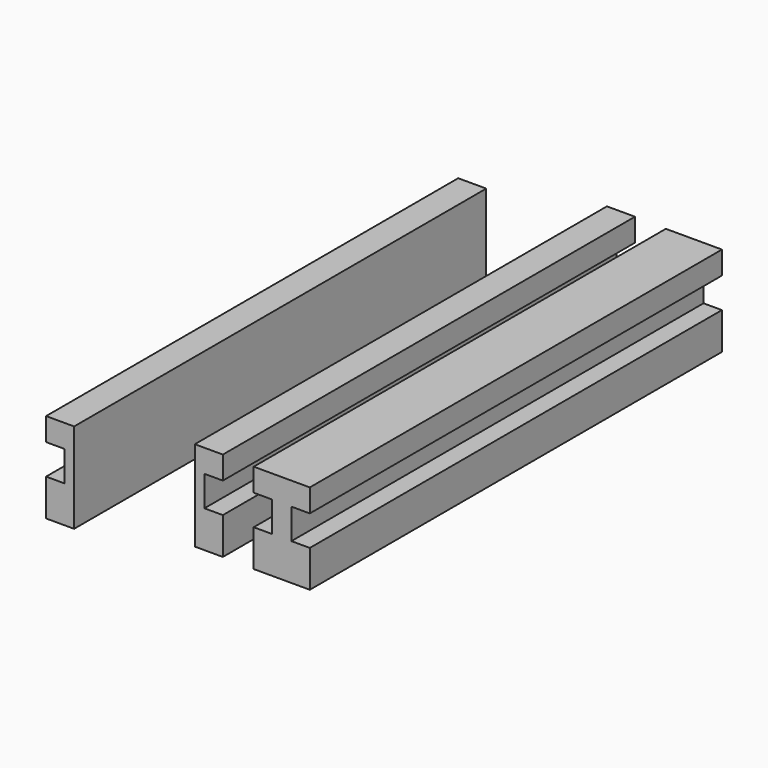
from build123d import *

# Parameters (mm, degrees)
F0_W     = 26.1
F0_H     = 122.3
F1_DEPTH = 698.9
F2_W     = 25
F2_H     = 31.1
F3_DEPTH = 698.9
F5_DEPTH = 698.9
F7_DEPTH = 698.9


with BuildPart() as f1:
    # F0 (on Front) → F1 (new body)
    with BuildSketch(Plane.XZ):
        Rectangle(F0_W, F0_H)
    extrude(amount=F1_DEPTH)

    # F2 (on face) → F3 (join)
    with BuildSketch(Plane.XZ.offset(698.9)):
        with Locations((-25.55, 45.6)):
            Rectangle(F2_W, F2_H)
        Polygon((-38.05, -61.15), (-13.05, -61.15), (-13.05, -11.15), (-38.05, -11.142086), align=None)
        with Locations((25.55, 45.6)):
            Rectangle(F2_W, F2_H)
        Polygon((38.05, -61.15), (38.05, -11.142086), (13.05, -11.15), (13.05, -61.15), align=None)
    extrude(amount=-F3_DEPTH)


with BuildPart() as f5:
    # F4 (on Front) → F5 (new body)
    with BuildSketch(Plane.XZ):
        Polygon((-104.935138, 30.892459), (-79.935138, 30.892459), (-79.935138, 61.992459), (-117.985138, 61.992459), (-117.985138, -60.307541), (-79.935138, -60.307541), (-79.935138, -10.299627), (-104.935138, -10.307541), align=None)
    extrude(amount=F5_DEPTH)


with BuildPart() as f7:
    # F6 (on Front) → F7 (new body)
    with BuildSketch(Plane.XZ):
        Polygon((-281.716662, -92.315719), (-281.716662, 29.984281), (-319.766662, 29.984281), (-319.766662, -1.115719), (-294.766662, -1.115719), (-294.766662, -42.315719), (-319.766662, -42.307805), (-319.766662, -92.315719), align=None)
    extrude(amount=F7_DEPTH)


solid = Compound([f1.part, f5.part, f7.part])
